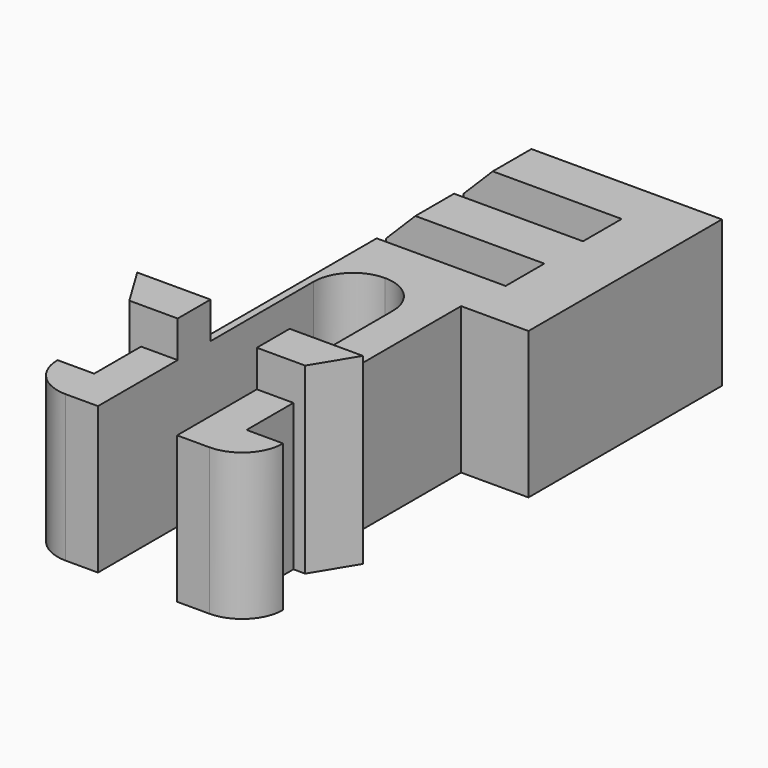
from build123d import *

# Parameters (mm, degrees)
PAD017_DEPTH           = 5
PAD020_DEPTH           = 6.25
SKETCH105_W            = 7.5
SKETCH105_H            = 1.65
PAD074_DEPTH           = 5
SKETCH102_W            = 7.5
SKETCH102_H            = 1.65
PAD075_DEPTH           = 2.1
SKETCH103_W            = 2.1
SKETCH103_H            = 1.65
PAD076_DEPTH           = 5
SKETCH104_W            = 7.5
SKETCH104_H            = 1.65
PAD077_DEPTH           = 5
LINEARPATTERN024_COUNT = 2
LINEARPATTERN024_PITCH = 3.3
CHAMFER014_SIZE        = 1


with BuildPart() as obj1:
    # Sketch034 → Pad017 (new body)
    with BuildSketch(Plane.XY):
        with BuildLine():
            Line((-1.35, -1.8), (-1.35, 6))
            ThreePointArc((0, 7.35), (-0.954594, 6.954594), (-1.35, 6))
            Line((0, 9), (0, 7.35))
            Line((-2.6, 9), (0, 9))
            Line((-2.6, -1.8), (-2.6, 9))
            Line((-3.85, -1.8), (-2.6, -1.8))
            ThreePointArc((-3.85, -1.8), (-3.439949, -2.789949), (-2.45, -3.2))
            Line((-1.35, -3.2), (-2.45, -3.2))
            Line((-1.35, -1.8), (-1.35, -3.2))
        make_face()
    extrude(amount=PAD017_DEPTH)

    # Sketch037 → Pad020 (join)
    with BuildSketch(Plane.XY):
        Polygon((-1.35, 0.2), (-1.35, 1.6), (-2.6, 1.6), (-3.85, 1.6), (-3, 0.2), (-2.6, 0.2), align=None)
    extrude(amount=PAD020_DEPTH)


with BuildPart() as obj2:
    # Mirror001: instance of _obj1
    add(obj1.part.mirror(Plane(origin=(0, 0, 0), x_dir=(0, 1, 0), z_dir=(-1, 0, 0))))


with BuildPart() as body039:
    # Fusion001 base: copy of _obj1
    add(obj1.part)

    # Fusion001: union _obj2)
    add(obj2.part)

    # Sketch105 → Pad074 (new body)
    with BuildSketch(Plane.XY):
        with Locations((1.15, 8.175)):
            Rectangle(SKETCH105_W, SKETCH105_H)
    extrude(amount=PAD074_DEPTH)

    # Sketch102 → Pad075 (join)
    with BuildSketch(Plane.XY):
        with Locations((1.15, 9.825)):
            Rectangle(SKETCH102_W, SKETCH102_H)
    pad075 = extrude(amount=PAD075_DEPTH)

    # Sketch103 → Pad076 (join)
    with BuildSketch(Plane.XY):
        with Locations((3.85, 9.825)):
            Rectangle(SKETCH103_W, SKETCH103_H)
    pad076 = extrude(amount=PAD076_DEPTH)

    # Sketch104 → Pad077 (join)
    with BuildSketch(Plane.XY):
        with Locations((1.15, 11.475)):
            Rectangle(SKETCH104_W, SKETCH104_H)
    pad077 = extrude(amount=PAD077_DEPTH)

    # LinearPattern024: Pad077, Pad076, Pad075 ×2
    with Locations(*[(0, i * LINEARPATTERN024_PITCH, 0) for i in range(1, LINEARPATTERN024_COUNT)]):
        add(pad077)
        add(pad076)
        add(pad075)

    # Chamfer014
    chamfer014_edges = [body039.edges().sort_by_distance(p)[0] for p in [
        (-2.6, 8.175, 5),
        (-2.6, 11.475, 5),
        (-2.6, 14.775, 5),
    ]]
    chamfer(chamfer014_edges, length=CHAMFER014_SIZE)


solid = body039.part
